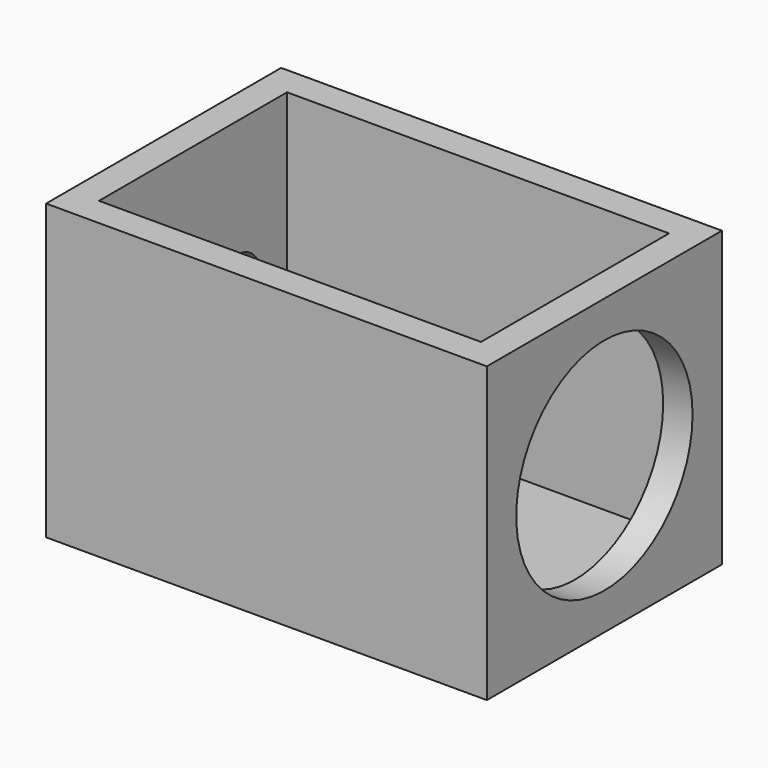
from build123d import *

# Parameters (mm, degrees)
F0_W     = 19.05
F0_H     = 12.7
F1_DEPTH = 12.7
F2_T     = -1.27
F3_R     = 4.7625
F4_DEPTH = 1.27
F5_R     = 1.27
F6_DEPTH = 1.27


with BuildPart() as f1:
    # F0 (on Top) → F1 (new body)
    with BuildSketch(Plane.XY):
        Rectangle(F0_W, F0_H)
    extrude(amount=F1_DEPTH)

    # F2
    f2_openings = [f1.faces().sort_by_distance(p)[0] for p in [
        (0, 0, 12.7),
    ]]
    offset(amount=F2_T, openings=f2_openings)

    # F3 (on face) → F4 (cut, through all)
    with BuildSketch(Plane.YZ.offset(9.525)):
        with Locations((0, 6.35)):
            Circle(F3_R)
    extrude(amount=-F4_DEPTH, mode=Mode.SUBTRACT)

    # F5 (on face) → F6 (cut, through all)
    with BuildSketch(Plane(origin=(-9.525, 0, 0), x_dir=(0, -1, 0), z_dir=(-1, 0, 0))):
        with Locations((-2.38125, 6.35)):
            Circle(F5_R)
        with Locations((2.38125, 6.35)):
            Circle(F5_R)
    extrude(amount=-F6_DEPTH, mode=Mode.SUBTRACT)


solid = f1.part
